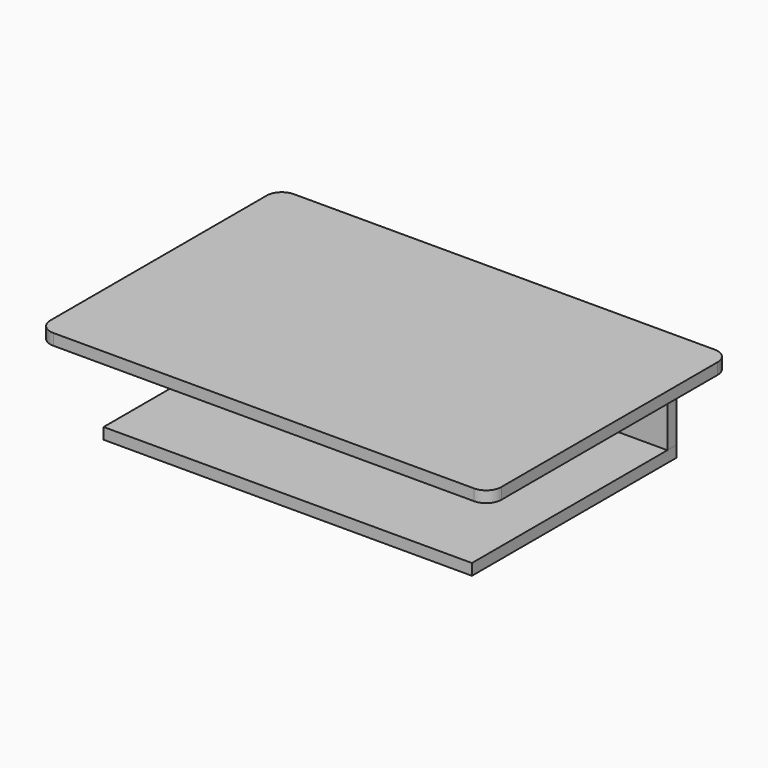
from build123d import *

# Parameters (mm, degrees)
F1_DEPTH = 19.05
F2_W     = 19.05
F2_H     = 412.75
F3_DEPTH = 7.62
F4_W     = 622.3
F4_H     = 19.05
F5_DEPTH = 134.62
F6_W     = 622.3
F6_H     = 431.8
F7_DEPTH = 19.05


with BuildPart() as f1:
    # F0 (on Top) → F1 (new body)
    with BuildSketch(Plane.XY):
        with BuildLine():
            Line((355.6, 254), (-355.6, 254))
            ThreePointArc((-355.6, 254), (-373.560512, 246.560512), (-381, 228.6))
            Line((-381, 228.6), (-381, -228.6))
            ThreePointArc((-381, -228.6), (-373.560512, -246.560512), (-355.6, -254))
            Line((-355.6, -254), (355.6, -254))
            ThreePointArc((355.6, -254), (373.560512, -246.560512), (381, -228.6))
            Line((381, -228.6), (381, 228.6))
            ThreePointArc((381, 228.6), (373.560512, 246.560512), (355.6, 254))
        make_face()
    extrude(amount=F1_DEPTH)

    # F2 (on face) → F3 (cut)
    with BuildSketch(Plane(origin=(0, 0, 0), x_dir=(1, 0, 0), z_dir=(0, 0, -1))):
        Polygon((-330.2, -228.6), (330.2, -228.6), (330.2, -209.55), (311.15, -209.55), (-311.15, -209.55), (-330.2, -209.55), align=None)
        with Locations((320.675, -3.175)):
            Rectangle(F2_W, F2_H)
        with Locations((-320.675, -3.175)):
            Rectangle(F2_W, F2_H)
    extrude(amount=-F3_DEPTH, mode=Mode.SUBTRACT)


with BuildPart() as f5:
    # F4 (on face) → F5 (new body)
    with BuildSketch(Plane(origin=(0, 0, 7.62), x_dir=(1, 0, 0), z_dir=(0, 0, -1))):
        with Locations((0, -219.075)):
            Rectangle(F4_W, F4_H)
    extrude(amount=F5_DEPTH)


with BuildPart() as f7:
    # F6 (on face) → F7 (new body)
    with BuildSketch(Plane(origin=(0, 0, -127), x_dir=(1, 0, 0), z_dir=(0, 0, -1))):
        with Locations((0, -12.7)):
            Rectangle(F6_W, F6_H)
    extrude(amount=F7_DEPTH)


solid = Compound([f1.part, f5.part, f7.part])
